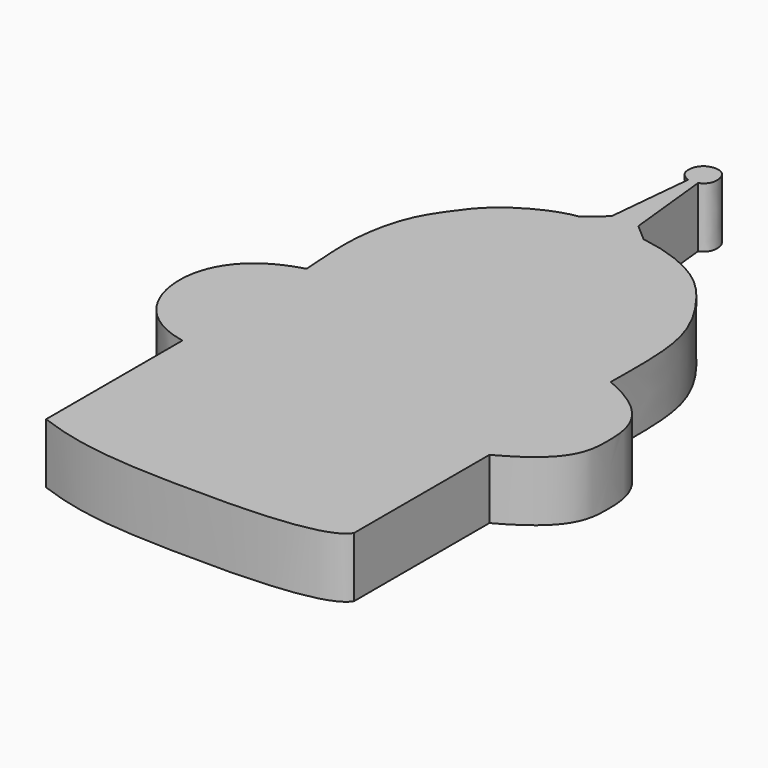
from build123d import *

# Parameters (mm, degrees)
F1_DEPTH = 6.35


with BuildPart() as f1:
    # F0 (on Top) → F1 (new body)
    with BuildSketch(Plane.XY):
        with BuildLine():
            add(Edge.make_bspline(
                [(-17.8087707609, -17.8047697991), (-22.8601377457, -16.8267022818), (-26.8589472699, -8.8010269979), (-22.4400032312, -2.6471242309), (-17.8087707609, -1.3867180096)],
                knots=[0, 0, 0, 0, 0.5077474502, 1, 1, 1, 1], degree=3))
            Line((-17.8087707609, -17.8047697991), (-17.8087707609, -30.0455205142))
            Line((-17.8087707609, -30.0455205142), (-17.8087707609, -35.8215384185))
            add(Edge.make_bspline(
                [(-17.8087707609, -35.8215384185), (-12.7404900268, -37.6972183585), (-4.0272323551, -38.3667112626), (13.4030133486, -38.1388328969), (14.7486086935, -35.8215384185)],
                knots=[0, 0, 0, 0, 0.4921202108, 1, 1, 1, 1], degree=3))
            Line((14.7486086935, -35.8215384185), (14.7486086935, -17.9304257035))
            add(Edge.make_bspline(
                [(14.4269019365, -1.4917515218), (20.4138346016, -4.0125651285), (21.2008225366, -10.0734105243), (20.518867299, -14.831058681), (14.7486086935, -17.9304257035)],
                knots=[0, 0, 0, 0, 0.503867428, 1, 1, 1, 1], degree=3))
            add(Edge.make_bspline(
                [(0.5892824847, 20.1278757304), (3.3169696364, 19.7187227484), (7.7328274813, 18.0679030674), (11.2077832285, 14.0420057336), (14.6994140615, 8.286586887), (14.4496048824, 1.8159416174), (14.4269019365, -1.4917515218)],
                knots=[0, 0, 0, 0, 0.255634179, 0.4675532575, 0.7058895566, 1, 1, 1, 1], degree=3))
            Line((0.5892824847, 20.1278757304), (-1.20218948, 21.6906256974))
            Line((-1.20218948, 21.6906256974), (-2.1603249479, 30.7700987905))
            add(Edge.make_bspline(
                [(-3.1640857924, 30.7244732976), (-3.571670647, 30.8806690809), (-4.2685921168, 31.3602531845), (-4.3280254073, 32.6269141204), (-3.6471676987, 33.6906279149), (-2.0566066117, 33.8467765544), (-1.1661180238, 32.7886800072), (-1.2520737733, 31.3261280299), (-1.8288642951, 30.9342307701), (-2.1603249479, 30.7700987905)],
                knots=[0, 0, 0, 0, 0.1430719695, 0.2817530389, 0.4220544222, 0.5755756794, 0.7205004163, 0.8692523372, 1, 1, 1, 1], degree=3))
            Line((-3.1640857924, 30.7244732976), (-4.0309703909, 21.6906256974))
            Line((-4.0309703909, 21.6906256974), (-6.0203862377, 19.9705008417))
            add(Edge.make_bspline(
                [(-6.0203862377, 19.9705008417), (-8.21159944, 19.7075563571), (-12.578458802, 17.3131629037), (-14.7342046184, 14.4311538518), (-17.1637251565, 11.0457164764), (-18.392473973, 4.9966715006), (-17.9561832673, 0.7642328675), (-17.8087707609, -1.3867180096)],
                knots=[0, 0, 0, 0, 0.2284315339, 0.3934737495, 0.5659503247, 0.7790229102, 1, 1, 1, 1], degree=3))
        make_face()
    extrude(amount=F1_DEPTH)


solid = f1.part
